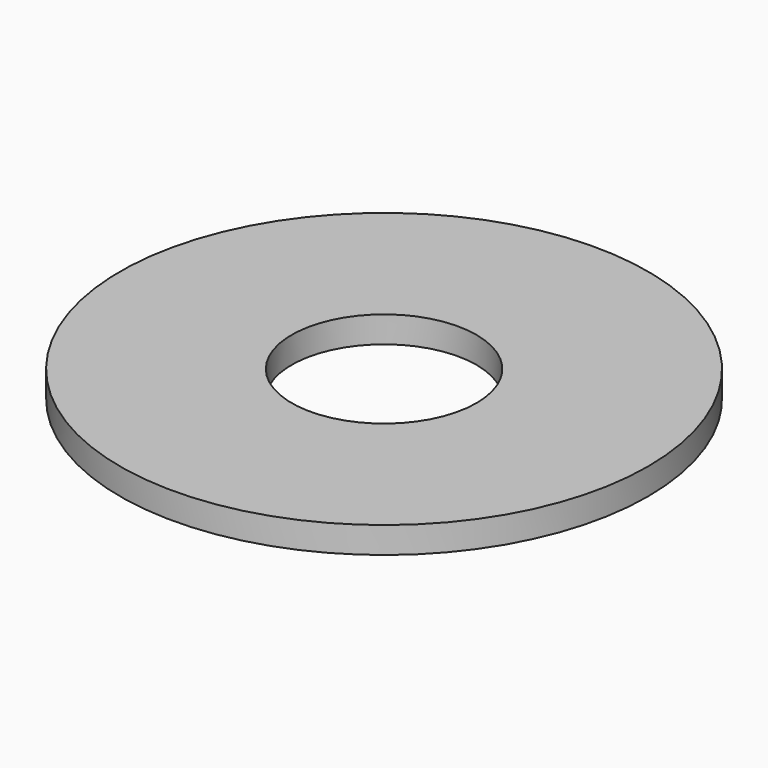
from build123d import *

# Parameters (mm, degrees)
CYLINDER007_R     = 1.75
CYLINDER007_DEPTH = 1.5
CYLINDER006_R     = 5
CYLINDER006_DEPTH = 0.5


with BuildPart() as obj1:
    # Cylinder007 → Cylinder007 (new body)
    with BuildSketch(Plane(origin=(-29.1, 53.1, 24.6), x_dir=(1, 0, 0), z_dir=(0, 0, 1))):
        Circle(CYLINDER007_R)
    extrude(amount=CYLINDER007_DEPTH)


with BuildPart() as arandela:
    # Cylinder006 → Cylinder006 (new body)
    with BuildSketch(Plane(origin=(-29.1, 53.1, 25.2), x_dir=(1, 0, 0), z_dir=(0, 0, 1))):
        Circle(CYLINDER006_R)
    extrude(amount=CYLINDER006_DEPTH)

    # Cut003: cut obj1
    add(obj1.part, mode=Mode.SUBTRACT)


with BuildPart() as arandela_1:
    # Cut003 placement: moved
    add(arandela.part.moved(Location((0, 0, -5.7))))


solid = arandela_1.part
